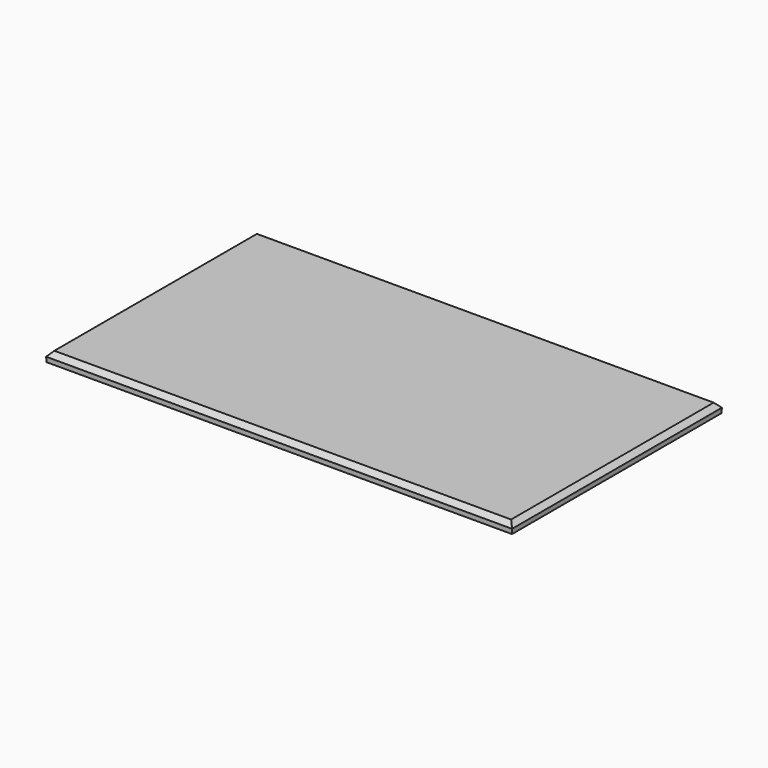
from build123d import *

# Parameters (mm, degrees)
F0_W     = 1219.2
F0_H     = 685.8
F1_DEPTH = 25.4
F1_TAPER = -3
F2_SIZE  = 12.7


with BuildPart() as f1:
    # F0 (on Top) → F1 (new body)
    with BuildSketch(Plane.XY):
        Rectangle(F0_W, F0_H)
    extrude(amount=F1_DEPTH, taper=F1_TAPER)

    # F2
    f2_edges = [f1.edges().sort_by_distance(p)[0] for p in [
        (610.931158, 0, 25.4),
        (0, 344.231158, 25.4),
        (-610.931158, 0, 25.4),
        (0, -344.231158, 25.4),
    ]]
    chamfer(f2_edges, length=F2_SIZE)


solid = f1.part
